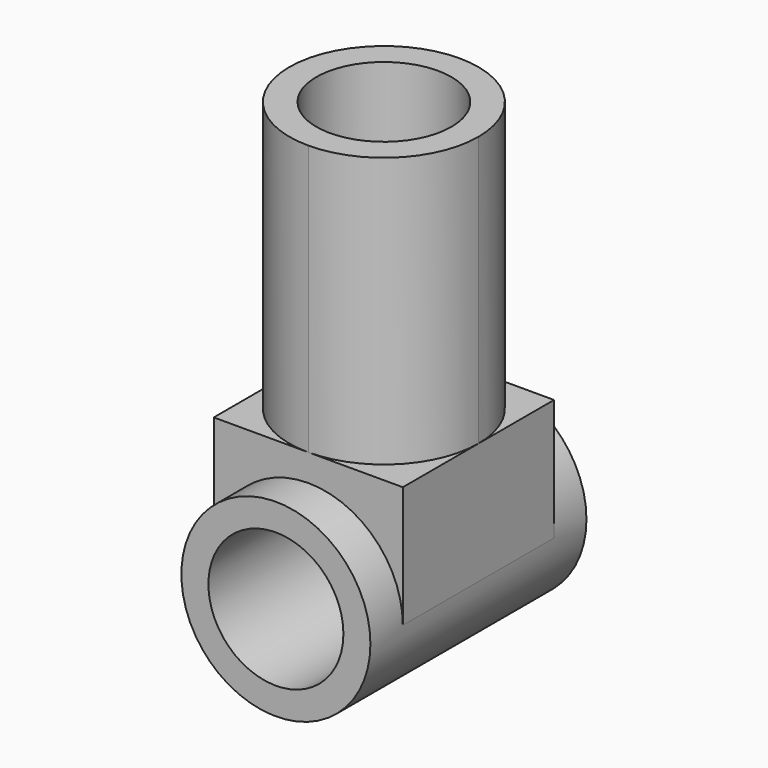
from build123d import *

# Parameters (mm, degrees)
F0_R     = 17.5
F0_R_2   = 12.5
F1_DEPTH = 25
F2_W     = 35
F2_H     = 35
F3_DEPTH = 22.5
F4_R     = 12.5
F5_DEPTH = 50
F6_DEPTH = 35


with BuildPart() as f1:
    # F0 (on Front) → F1 (new body, symmetric)
    with BuildSketch(Plane.XZ):
        Circle(F0_R)
        Circle(F0_R_2, mode=Mode.SUBTRACT)
    extrude(amount=F1_DEPTH, both=True)

    # F2 (on Top) → F3 (join)
    with BuildSketch(Plane.XY):
        Rectangle(F2_W, F2_H)
    extrude(amount=F3_DEPTH)

    # F4 (on face) → F5 (join)
    with BuildSketch(Plane.XY.offset(22.5)):
        with BuildLine():
            ThreePointArc((3.33e-08, -17.5), (12.3743686825, -12.374368659), (17.5, 0))
            ThreePointArc((17.5, 0), (12.3743686917, 12.3743686498), (5.93e-08, 17.5))
            ThreePointArc((5.93e-08, 17.5), (-12.3743686571, 12.3743686844), (-17.5, -2.06e-08))
            ThreePointArc((-17.5, -2.06e-08), (-12.3743686517, -12.3743686898), (3.33e-08, -17.5))
        make_face()
        Circle(F4_R, mode=Mode.SUBTRACT)
    extrude(amount=F5_DEPTH)

    # F6 (cut, through all): a face of the model
    f6_faces = [f1.faces().sort_by_distance(p)[0] for p in [
        (0, -17.5, 5.3051647697),
    ]]
    extrude(f6_faces, amount=-F6_DEPTH, mode=Mode.SUBTRACT)


solid = f1.part
